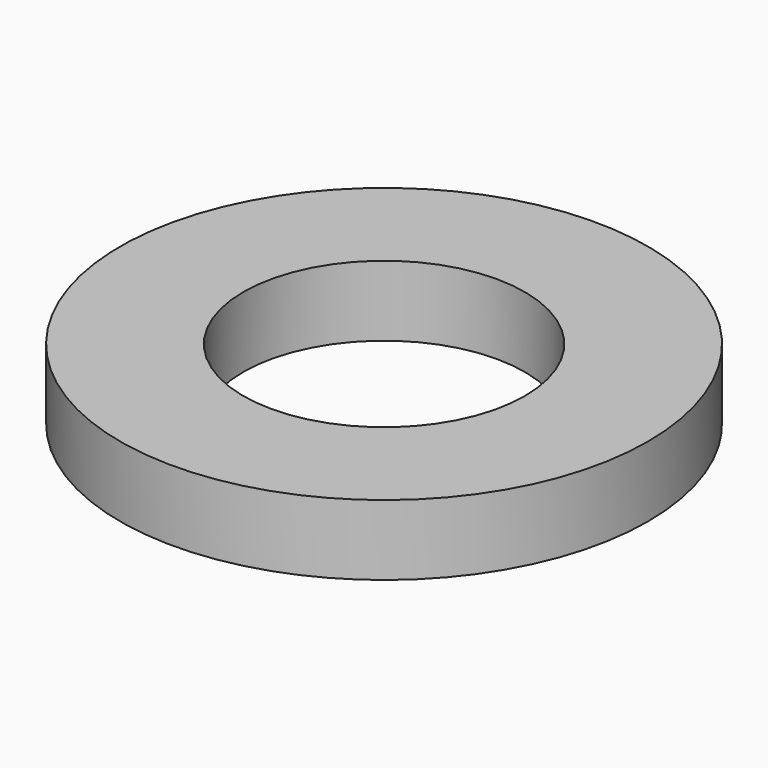
from build123d import *

# Parameters (mm, degrees)
SKETCH_R   = 7.5
SKETCH_R_2 = 4
PAD_DEPTH  = 2


with BuildPart() as part:
    # Sketch → Pad (new body)
    with BuildSketch(Plane.XY):
        Circle(SKETCH_R)
        Circle(SKETCH_R_2, mode=Mode.SUBTRACT)
    extrude(amount=PAD_DEPTH)


solid = part.part
